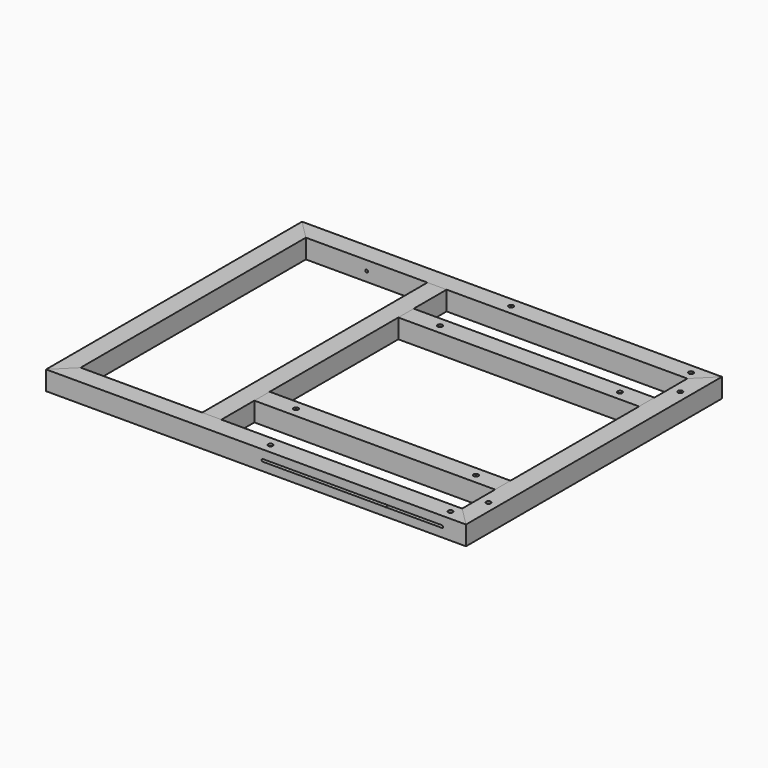
from build123d import *

# Parameters (mm, degrees)
F1_DEPTH  = 48
F2_DEPTH  = 48
F3_DEPTH  = 48
F4_DEPTH  = 48
F5_DEPTH  = 48
F0_W      = 602
F0_H      = 48
F6_DEPTH  = 48
F7_DEPTH  = 48
F8_R      = 6
F10_DEPTH = 5
F9_R      = 3.5
F11_DEPTH = 48.001
F13_DEPTH = 800.001
F14_DEPTH = 800.001
F16_DEPTH = 50
F17_START = -20
F17_DEPTH = 30
F18_START = -798
F18_DEPTH = 2


with BuildPart() as f1:
    # F0 (on Top) → F1 (new body)
    with BuildSketch(Plane.XY):
        Polygon((0, 800), (0, 0), (48, 48), (48, 752), align=None)
    extrude(amount=F1_DEPTH)


with BuildPart() as f2:
    # F0 (on Top) → F2 (new body)
    with BuildSketch(Plane.XY):
        Polygon((48, 48), (0, 0), (1050, 0), (1002, 48), (400, 48), (352, 48), align=None)
    extrude(amount=F2_DEPTH)


with BuildPart() as f3:
    # F0 (on Top) → F3 (new body)
    with BuildSketch(Plane.XY):
        Polygon((1002, 48), (1050, 0), (1050, 800), (1002, 752), (1002, 649), (1002, 601), (1002, 199), (1002, 151), align=None)
    extrude(amount=F3_DEPTH)


with BuildPart() as f4:
    # F0 (on Top) → F4 (new body)
    with BuildSketch(Plane.XY):
        Polygon((1050, 800), (0, 800), (48, 752), (352, 752), (400, 752), (1002, 752), align=None)
    extrude(amount=F4_DEPTH)


with BuildPart() as f5:
    # F0 (on Top) → F5 (new body)
    with BuildSketch(Plane.XY):
        Polygon((352, 752), (352, 48), (400, 48), (400, 151), (400, 199), (400, 601), (400, 649), (400, 752), align=None)
    extrude(amount=F5_DEPTH)


with BuildPart() as f6:
    # F0 (on Top) → F6 (new body)
    with BuildSketch(Plane.XY):
        with Locations((701, 175)):
            Rectangle(F0_W, F0_H)
    extrude(amount=F6_DEPTH)


with BuildPart() as f7:
    # F0 (on Top) → F7 (new body)
    with BuildSketch(Plane.XY):
        with Locations((701, 625)):
            Rectangle(F0_W, F0_H)
    extrude(amount=F7_DEPTH)


with BuildPart() as f10_tool:
    # F8 (on face) → F10 (new body)
    with BuildSketch(Plane.XY.offset(48)):
        with BuildLine():
            ThreePointArc((1026, 706), (1021.7573593129, 695.7573593129), (1032, 700))
            ThreePointArc((1032, 700), (1030.2426406871, 704.2426406871), (1026, 706))
        make_face()
        with Locations((1026, 100)):
            Circle(F8_R)
        with Locations((992, 776)):
            Circle(F8_R)
        with Locations((992, 24)):
            Circle(F8_R)
        with Locations((542, 776)):
            Circle(F8_R)
        with Locations((542, 24)):
            Circle(F8_R)
        with Locations((935, 625)):
            Circle(F8_R)
        with Locations((935, 175)):
            Circle(F8_R)
        with Locations((485, 625)):
            Circle(F8_R)
        with Locations((485, 175)):
            Circle(F8_R)
    extrude(amount=-F10_DEPTH)


with BuildPart() as f2_1:
    add(f2.part)

    # F10: cut by f10_tool
    add(f10_tool.part, mode=Mode.SUBTRACT)


with BuildPart() as f3_1:
    add(f3.part)

    # F10: cut by f10_tool
    add(f10_tool.part, mode=Mode.SUBTRACT)


with BuildPart() as f4_1:
    add(f4.part)

    # F10: cut by f10_tool
    add(f10_tool.part, mode=Mode.SUBTRACT)


with BuildPart() as f6_1:
    add(f6.part)

    # F10: cut by f10_tool
    add(f10_tool.part, mode=Mode.SUBTRACT)


with BuildPart() as f7_1:
    add(f7.part)

    # F10: cut by f10_tool
    add(f10_tool.part, mode=Mode.SUBTRACT)


with BuildPart() as f11_tool:
    # F9 (on face) → F11 (new body, through all)
    with BuildSketch(Plane.XY.offset(48)):
        with BuildLine():
            ThreePointArc((1026, 703.5), (1023.5251262658, 697.5251262658), (1029.5, 700))
            ThreePointArc((1029.5, 700), (1028.4748737342, 702.4748737342), (1026, 703.5))
        make_face()
        with Locations((1026, 100)):
            Circle(F9_R)
        with Locations((992, 776)):
            Circle(F9_R)
        with Locations((992, 24)):
            Circle(F9_R)
        with Locations((542, 776)):
            Circle(F9_R)
        with Locations((542, 24)):
            Circle(F9_R)
        with Locations((935, 625)):
            Circle(F9_R)
        with Locations((935, 175)):
            Circle(F9_R)
        with Locations((485, 625)):
            Circle(F9_R)
        with Locations((485, 175)):
            Circle(F9_R)
    extrude(amount=-F11_DEPTH)


with BuildPart() as f2_2:
    add(f2_1.part)

    # F11: cut by f11_tool
    add(f11_tool.part, mode=Mode.SUBTRACT)

    # F12 (on face) → F14 (cut, through all)
    with BuildSketch(Plane.XZ):
        with BuildLine():
            Line((850, 24), (850, 27.5))
            ThreePointArc((850, 27.5), (846.5, 24), (850, 20.5))
            Line((850, 20.5), (850, 24))
        make_face()
        with BuildLine():
            Line((850, 24), (850, 20.5))
            ThreePointArc((850, 20.5), (852.4748737342, 21.5251262658), (853.5, 24))
            Line((853.5, 24), (850, 24))
        make_face()
        with BuildLine():
            ThreePointArc((853.5, 24), (852.4748737342, 26.4748737342), (850, 27.5))
            Line((850, 27.5), (850, 24))
            Line((850, 24), (853.5, 24))
        make_face()
    extrude(amount=-F14_DEPTH, mode=Mode.SUBTRACT)

    # F15 (on Front) → F16 (cut)
    with BuildSketch(Plane.XZ):
        with BuildLine():
            Line((990, 27), (542, 27))
            ThreePointArc((542, 27), (539, 24), (542, 21))
            Line((542, 21), (990, 21))
            ThreePointArc((990, 21), (993, 24), (990, 27))
        make_face()
    extrude(amount=-F16_DEPTH, mode=Mode.SUBTRACT)

    # F15 (on Front) → F17 (cut)
    with BuildSketch(Plane.XZ.offset(F17_START)):
        with BuildLine():
            Line((539.4544155877, 18.9), (992.5455844123, 18.9))
            ThreePointArc((992.5455844123, 18.9), (995.7, 24), (992.5455844123, 29.1))
            Line((992.5455844123, 29.1), (539.4544155877, 29.1))
            ThreePointArc((539.4544155877, 29.1), (536.3, 24), (539.4544155877, 18.9))
        make_face()
        with BuildLine():
            ThreePointArc((542, 21), (539, 24), (542, 27))
            Line((542, 27), (990, 27))
            ThreePointArc((990, 27), (993, 24), (990, 21))
            Line((990, 21), (542, 21))
        make_face(mode=Mode.SUBTRACT)
    extrude(amount=-F17_DEPTH, mode=Mode.SUBTRACT)


with BuildPart() as f3_2:
    add(f3_1.part)

    # F11: cut by f11_tool
    add(f11_tool.part, mode=Mode.SUBTRACT)


with BuildPart() as f4_2:
    add(f4_1.part)

    # F11: cut by f11_tool
    add(f11_tool.part, mode=Mode.SUBTRACT)

    # F12 (on face) → F13 (cut, through all)
    with BuildSketch(Plane.XZ):
        with BuildLine():
            Line((200, 27.5), (200, 24))
            Line((200, 24), (200, 20.5))
            ThreePointArc((200, 20.5), (202.4748737342, 21.5251262658), (203.5, 24))
            ThreePointArc((203.5, 24), (202.4748737342, 26.4748737342), (200, 27.5))
        make_face()
        with BuildLine():
            Line((200, 24), (196.5, 24))
            ThreePointArc((196.5, 24), (197.5251262658, 21.5251262658), (200, 20.5))
            Line((200, 20.5), (200, 24))
        make_face()
        with BuildLine():
            ThreePointArc((200, 27.5), (197.5251262658, 26.4748737342), (196.5, 24))
            Line((196.5, 24), (200, 24))
            Line((200, 24), (200, 27.5))
        make_face()
    extrude(amount=-F13_DEPTH, mode=Mode.SUBTRACT)

    # F15 (on Front) → F18 (cut)
    with BuildSketch(Plane.XZ.offset(F18_START)):
        Polygon((486, 14), (1050, 14), (1050, 24), (1050, 34), (497, 34), (486, 34), align=None)
        with BuildLine():
            ThreePointArc((992.5455844123, 29.1), (995.7, 24), (992.5455844123, 18.9))
            Line((992.5455844123, 18.9), (539.4544155877, 18.9))
            ThreePointArc((539.4544155877, 18.9), (536.3, 24), (539.4544155877, 29.1))
            Line((539.4544155877, 29.1), (992.5455844123, 29.1))
        make_face(mode=Mode.SUBTRACT)
        with BuildLine():
            Line((539.4544155877, 18.9), (992.5455844123, 18.9))
            ThreePointArc((992.5455844123, 18.9), (995.7, 24), (992.5455844123, 29.1))
            Line((992.5455844123, 29.1), (539.4544155877, 29.1))
            ThreePointArc((539.4544155877, 29.1), (536.3, 24), (539.4544155877, 18.9))
        make_face()
        with BuildLine():
            ThreePointArc((542, 21), (539, 24), (542, 27))
            Line((542, 27), (990, 27))
            ThreePointArc((990, 27), (993, 24), (990, 21))
            Line((990, 21), (542, 21))
        make_face(mode=Mode.SUBTRACT)
        with BuildLine():
            Line((990, 27), (542, 27))
            ThreePointArc((542, 27), (539, 24), (542, 21))
            Line((542, 21), (990, 21))
            ThreePointArc((990, 21), (993, 24), (990, 27))
        make_face()
    extrude(amount=-F18_DEPTH, mode=Mode.SUBTRACT)


with BuildPart() as f6_2:
    add(f6_1.part)

    # F11: cut by f11_tool
    add(f11_tool.part, mode=Mode.SUBTRACT)


with BuildPart() as f7_2:
    add(f7_1.part)

    # F11: cut by f11_tool
    add(f11_tool.part, mode=Mode.SUBTRACT)


solid = Compound([f1.part, f5.part, f2_2.part, f3_2.part, f4_2.part, f6_2.part, f7_2.part])
